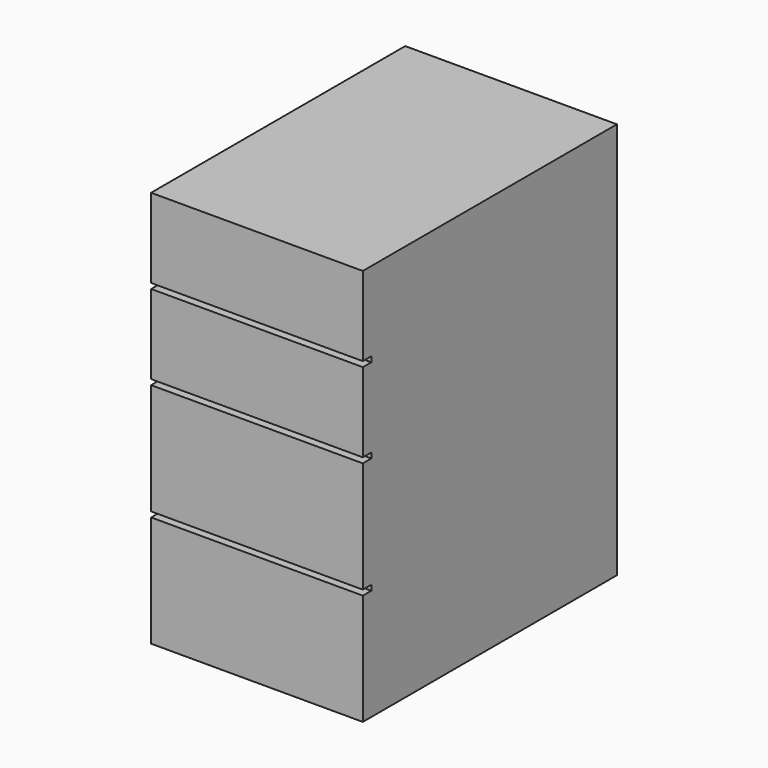
from build123d import *

# Parameters (mm, degrees)
F0_W     = 600
F0_H     = 750
F1_DEPTH = 400
F2_W     = 400
F2_H     = 10
F3_DEPTH = 20


with BuildPart() as f1:
    # F0 (on Right) → F1 (new body)
    with BuildSketch(Plane.YZ):
        with Locations((-300, 375)):
            Rectangle(F0_W, F0_H)
    extrude(amount=F1_DEPTH)

    # F2 (on face) → F3 (cut)
    with BuildSketch(Plane.XZ.offset(600)):
        with Locations((200, 595)):
            Rectangle(F2_W, F2_H)
        with Locations((200, 435)):
            Rectangle(F2_W, F2_H)
        with Locations((200, 215)):
            Rectangle(F2_W, F2_H)
    extrude(amount=-F3_DEPTH, mode=Mode.SUBTRACT)


solid = f1.part
